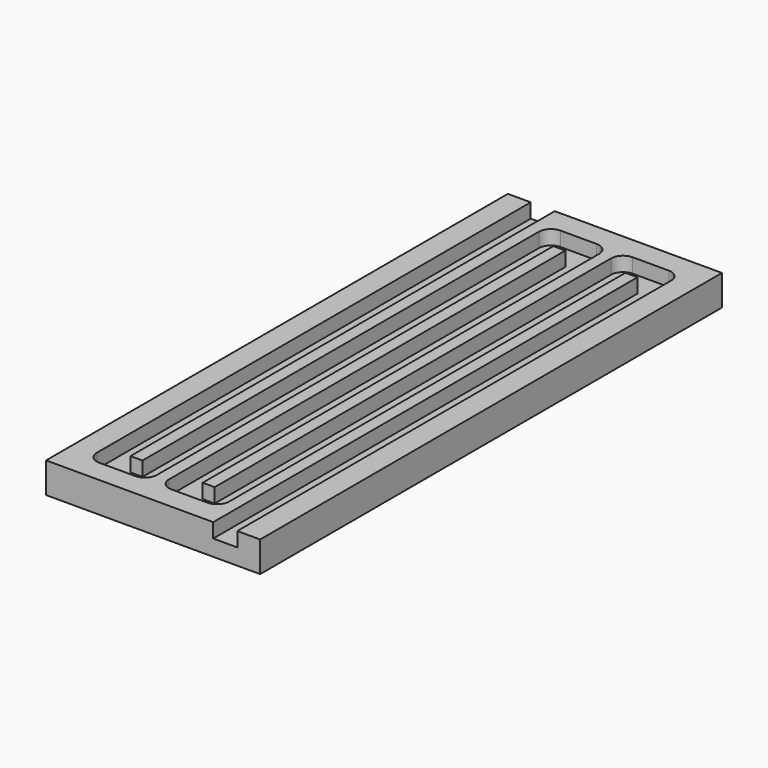
from build123d import *

# Parameters (mm, degrees)
F0_W     = 44.5
F0_H     = 120
F1_DEPTH = 6.35
F3_DEPTH = 3


with BuildPart() as f1:
    # F0 (on Top) → F1 (new body)
    with BuildSketch(Plane.XY):
        with Locations((-2.840908, 26.030913)):
            Rectangle(F0_W, F0_H)
    extrude(amount=F1_DEPTH)

    # F2 (on face) → F3 (cut)
    with BuildSketch(Plane.XY.offset(6.35)):
        with BuildLine():
            Line((9.659092, 76.280913), (9.659092, -33.969087))
            Line((9.659092, -33.969087), (14.659092, -33.969087))
            Line((14.659092, -33.969087), (14.659092, 76.280913))
            Line((14.659092, 76.280913), (14.659092, 78.780913))
            ThreePointArc((14.659092, 78.780913), (13.926859, 80.548679), (12.159092, 81.280913))
            Line((12.159092, 81.280913), (4.659092, 81.280913))
            ThreePointArc((4.659092, 81.280913), (2.891325, 80.548679), (2.159092, 78.780913))
            Line((2.159092, 78.780913), (2.159092, -24.219087))
            Line((2.159092, -24.219087), (-0.340908, -24.219087))
            Line((-0.340908, -24.219087), (-0.340908, 78.780913))
            ThreePointArc((-0.340908, 78.780913), (-1.073141, 80.548679), (-2.840908, 81.280913))
            Line((-2.840908, 81.280913), (-10.340908, 81.280913))
            ThreePointArc((-10.340908, 81.280913), (-12.108675, 80.548679), (-12.840908, 78.780913))
            Line((-12.840908, 78.780913), (-12.840908, -24.219087))
            Line((-12.840908, -24.219087), (-15.340908, -24.219087))
            Line((-15.340908, -24.219087), (-15.340908, 86.030913))
            Line((-15.340908, 86.030913), (-20.340908, 86.030913))
            Line((-20.340908, 86.030913), (-20.340908, -26.719087))
            ThreePointArc((-20.340908, -26.719087), (-19.608675, -28.486854), (-17.840908, -29.219087))
            Line((-17.840908, -29.219087), (-10.340908, -29.219087))
            ThreePointArc((-10.340908, -29.219087), (-8.573141, -28.486854), (-7.840908, -26.719087))
            Line((-7.840908, -26.719087), (-7.840908, 76.280913))
            Line((-7.840908, 76.280913), (-5.340908, 76.280913))
            Line((-5.340908, 76.280913), (-5.340908, -26.719087))
            ThreePointArc((-5.340908, -26.719087), (-4.608675, -28.486854), (-2.840908, -29.219087))
            Line((-2.840908, -29.219087), (4.659092, -29.219087))
            ThreePointArc((4.659092, -29.219087), (6.426859, -28.486854), (7.159092, -26.719087))
            Line((7.159092, -26.719087), (7.159092, 76.280913))
            Line((7.159092, 76.280913), (9.659092, 76.280913))
        make_face()
    extrude(amount=-F3_DEPTH, mode=Mode.SUBTRACT)


solid = f1.part
